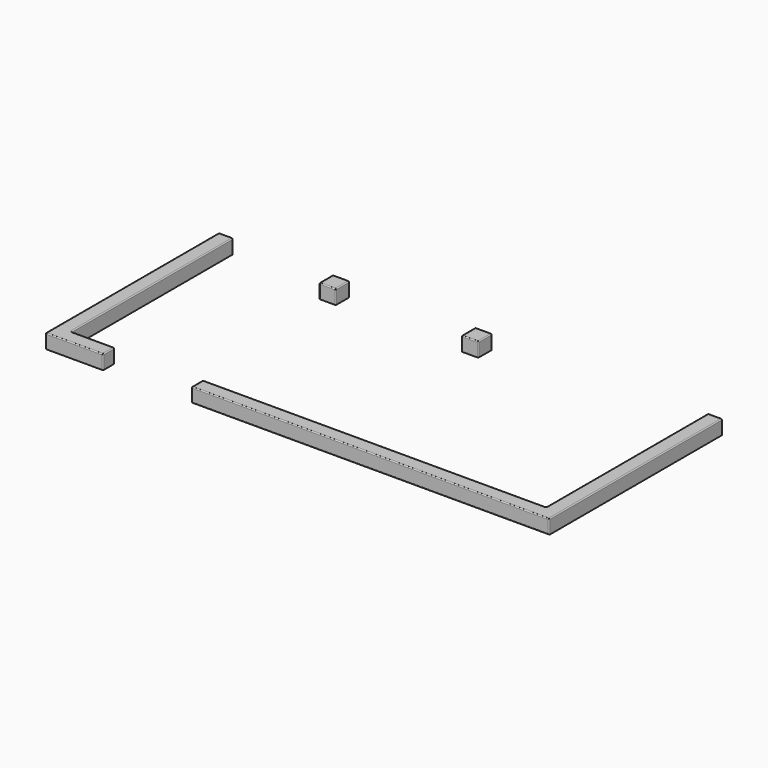
from build123d import *

# Parameters (mm, degrees)
F0_W     = 350
F0_H     = 350
F1_DEPTH = 300
F2_R     = 20


with BuildPart() as f1:
    # F0 (on Top) → F1 (new body)
    with BuildSketch(Plane.XY):
        Polygon((0, 4550), (0, 0), (1211.589932, 0), (1211.589932, 300), (300, 300), (300, 4550), align=None)
        Polygon((3074.353456, 0), (10600, 0), (10600, 4550), (10300, 4550), (10300, 300), (3074.353456, 300), align=None)
        with Locations((2575, 4375)):
            Rectangle(F0_W, F0_H)
        with Locations((5575, 4375)):
            Rectangle(F0_W, F0_H)
    extrude(amount=F1_DEPTH)

    # F2
    f2_edges = [f1.edges().sort_by_distance(p)[0] for p in [
        (300, 2425, 300),
        (0, 2275, 300),
        (755.794966, 300, 300),
        (605.794966, 0, 300),
        (1211.589932, 0, 150),
        (1211.589932, 150, 300),
        (1211.589932, 300, 150),
        (3074.353456, 0, 150),
        (3074.353456, 150, 300),
        (6687.176728, 300, 300),
        (6837.176728, 0, 300),
        (3074.353456, 300, 150),
        (10300, 2425, 300),
        (10600, 2275, 300),
        (10600, 0, 150),
        (6837.176728, 0, 0),
        (0, 0, 150),
        (300, 300, 150),
        (10300, 300, 150),
        (2400, 4200, 150),
        (2400, 4375, 300),
        (2575, 4200, 300),
        (2750, 4200, 150),
        (2750, 4375, 300),
        (5400, 4200, 150),
        (5575, 4200, 300),
        (5400, 4375, 300),
        (5750, 4200, 150),
        (5750, 4375, 300),
    ]]
    fillet(f2_edges, radius=F2_R)


solid = f1.part
